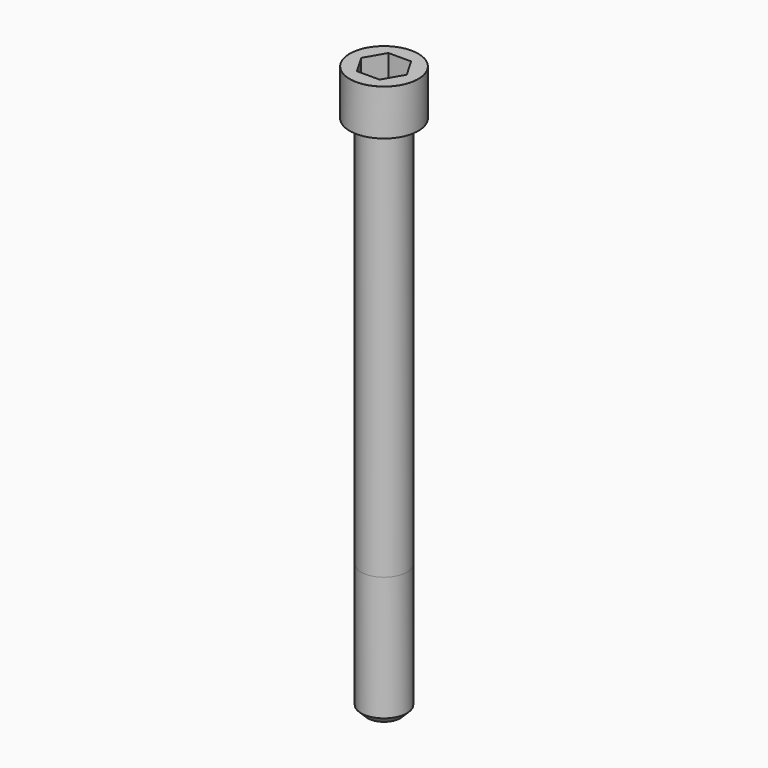
from build123d import *

# Parameters (mm, degrees)
POCKET_DEPTH = 12.07


with BuildPart() as part:
    # Sketch → Revolve (revolve)
    with BuildSketch(Plane.YZ):
        with BuildLine():
            Line((6.999, 0), (10.5, 0))
            Line((10.5, 0), (10.5, 13.97229))
            ThreePointArc((10.5, 13.97229), (10.491884, 13.991884), (10.47229, 14))
            Line((10.47229, 14), (0, 14))
            Line((0, -160), (0, 14))
            Line((5, -160), (0, -160))
            Line((7, -158), (5, -160))
            Line((7, -120), (7, -158))
            Line((6.999, 0), (7, -120))
        make_face()
    revolve(axis=Axis((0, 0, 0), (0, 0, 1)))

    # Sketch001 → Pocket (cut)
    with BuildSketch(Plane.XY.offset(14)):
        Polygon((6.968618, 0), (3.484309, 6.035), (-3.484309, 6.035), (-6.968618, 0), (-3.484309, -6.035), (3.484309, -6.035), align=None)
    extrude(amount=-POCKET_DEPTH, mode=Mode.SUBTRACT)


solid = part.part
